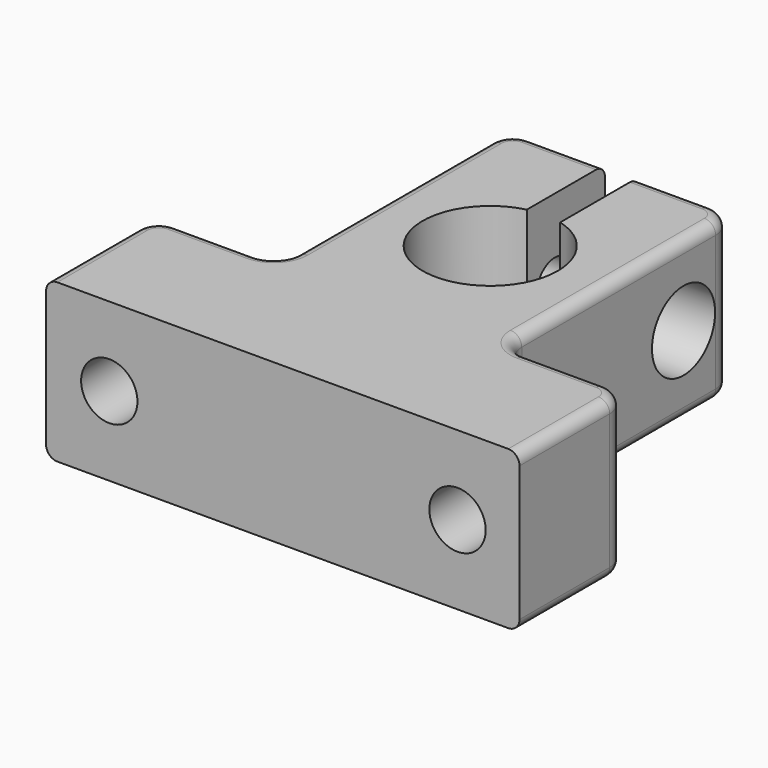
from build123d import *

# Parameters (mm, degrees)
F1_DEPTH = 14
F2_R     = 3.5
F2_R_2   = 2
F3_DEPTH = 5
F4_DEPTH = 25
F5_R     = 2.5
F6_DEPTH = 25
F7_R     = 1


with BuildPart() as f1:
    # F0 (on Top) → F1 (new body)
    with BuildSketch(Plane.XY):
        with BuildLine():
            Line((-75.1601234078, -64.5899677277), (-75.1601234078, -74.5899677277))
            Line((-75.1601234078, -74.5899677277), (-33.1601234078, -74.5899677277))
            Line((-33.1601234078, -74.5899677277), (-33.1601234078, -64.5899677277))
            ThreePointArc((-33.1601234078, -64.5899677277), (-33.7459098455, -63.1757541653), (-35.1601234078, -62.5899677277))
            Line((-35.1601234078, -62.5899677277), (-42.1601234078, -62.5899677277))
            ThreePointArc((-42.1601234078, -62.5899677277), (-43.5743369702, -62.00418129), (-44.1601234078, -60.5899677277))
            Line((-44.1601234078, -60.5899677277), (-44.1601234078, -39.0899677277))
            ThreePointArc((-44.1601234078, -39.0899677277), (-44.7459098455, -37.6757541653), (-46.1601234078, -37.0899677277))
            Line((-46.1601234078, -37.0899677277), (-52.5748137326, -37.0899677277))
            Line((-52.5748137326, -37.0899677277), (-52.5748137326, -45.8031902796))
            ThreePointArc((-52.5748137326, -45.8031902796), (-49.3898059105, -47.9507272885), (-48.1601234078, -51.5899677277))
            ThreePointArc((-48.1601234078, -51.5899677277), (-57.8690220349, -56.3063297763), (-55.5748137326, -45.7591314853))
            Line((-55.5748137326, -45.7591314853), (-55.5748137326, -37.0899677277))
            Line((-55.5748137326, -37.0899677277), (-62.1601234078, -37.0899677277))
            ThreePointArc((-62.1601234078, -37.0899677277), (-63.5743369702, -37.6757541653), (-64.1601234078, -39.0899677277))
            Line((-64.1601234078, -39.0899677277), (-64.1601234078, -60.5899677277))
            ThreePointArc((-64.1601234078, -60.5899677277), (-64.7459098455, -62.00418129), (-66.1601234078, -62.5899677277))
            Line((-66.1601234078, -62.5899677277), (-73.1601234078, -62.5899677277))
            ThreePointArc((-73.1601234078, -62.5899677277), (-74.5743369702, -63.1757541653), (-75.1601234078, -64.5899677277))
        make_face()
    extrude(amount=F1_DEPTH)

    # F2 (on face) → F3 (cut)
    with BuildSketch(Plane.YZ.offset(-44.1601234078)):
        with Locations((-42.6499210298, 7)):
            Circle(F2_R)
        with Locations((-42.6499210298, 7)):
            Circle(F2_R_2, mode=Mode.SUBTRACT)
    extrude(amount=-F3_DEPTH, mode=Mode.SUBTRACT)

    # F4 (cut): a face of the model
    f4_faces = [f1.faces().sort_by_distance(p)[0] for p in [
        (-44.1601234078, -42.6499210298, 7),
    ]]
    extrude(f4_faces, amount=-F4_DEPTH, mode=Mode.SUBTRACT)

    # F5 (on face) → F6 (cut)
    with BuildSketch(Plane(origin=(0, -62.5899677277, 0), x_dir=(-1, 0, 0), z_dir=(0, 1, 0))):
        with Locations((38.6601234078, 7)):
            Circle(F5_R)
        with Locations((69.5535764098, 7)):
            Circle(F5_R)
    extrude(amount=-F6_DEPTH, mode=Mode.SUBTRACT)

    # F7
    f7_edges = [f1.edges().sort_by_distance(p)[0] for p in [
        (-44.160123, -49.839968, 14),
        (-64.160123, -49.839968, 14),
        (-44.160123, -49.839968, 0),
        (-64.160123, -49.839968, 0),
    ]]
    fillet(f7_edges, radius=F7_R)


solid = f1.part
